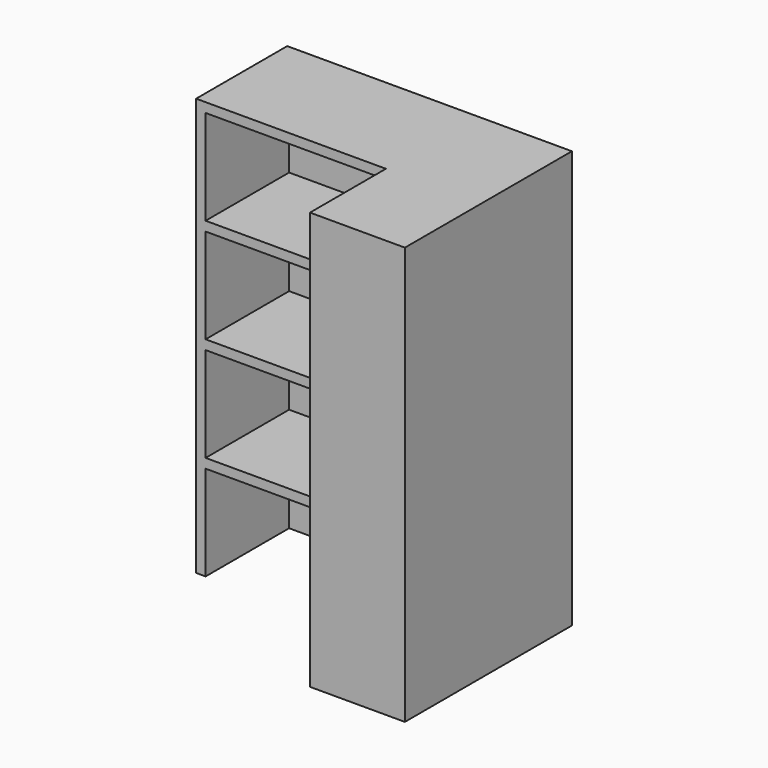
from build123d import *

# Parameters (mm, degrees)
BOX3519_W        = 1400
BOX3519_H        = 1000
BOX3519_DEPTH    = 500
ARRAY278_Z_COUNT = 4
ARRAY278_Z_PITCH = 550
BOX3518_W        = 500
BOX3518_H        = 500
BOX3518_DEPTH    = 2200
BOX3116_W        = 1500
BOX3116_H        = 600
BOX3116_DEPTH    = 2200


with BuildPart() as array278:
    # Box3519 → Box3519 (new body)
    with BuildSketch(Plane(origin=(1550, -1450, 0), x_dir=(1, 0, 0), z_dir=(0, 0, 1))):
        with Locations((700, 500)):
            Rectangle(BOX3519_W, BOX3519_H)
    extrude(amount=BOX3519_DEPTH)

    # Array278 Z: Array278 ×4


with BuildPart() as array278_1:
    add(array278.part)
    with Locations(*[(0, 0, i * ARRAY278_Z_PITCH) for i in range(1, ARRAY278_Z_COUNT)]):
        add(array278.part)


with BuildPart() as box3518:
    # Box3518 → Box3518 (new body)
    with BuildSketch(Plane(origin=(2500, -1500, 0), x_dir=(1, 0, 0), z_dir=(0, 0, 1))):
        with Locations((250, 250)):
            Rectangle(BOX3518_W, BOX3518_H)
    extrude(amount=BOX3518_DEPTH)


with BuildPart() as cut:
    # Box3116 → Box3116 (new body)
    with BuildSketch(Plane(origin=(1500, -1000, 0), x_dir=(1, 0, 0), z_dir=(0, 0, 1))):
        with Locations((750, 300)):
            Rectangle(BOX3116_W, BOX3116_H)
    extrude(amount=BOX3116_DEPTH)

    # Fusion: union Box3518
    add(box3518.part)

    # Cut: cut Array278
    add(array278_1.part, mode=Mode.SUBTRACT)


solid = cut.part
